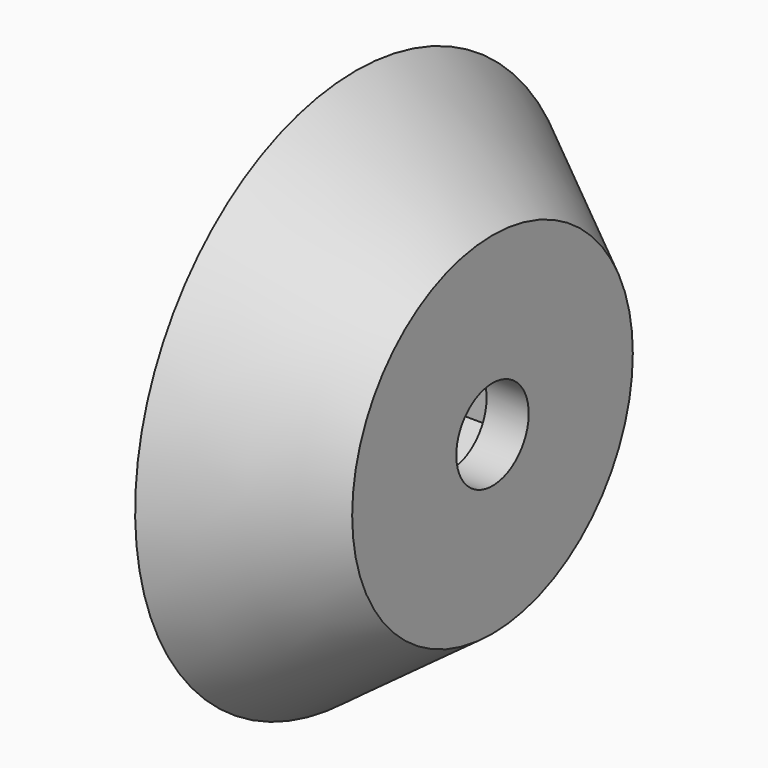
from build123d import *

# Parameters (mm, degrees)
F2_R     = 4.3
F3_DEPTH = 5


with BuildPart() as f1:
    # F0 (on Front) → F1 (revolve)
    with BuildSketch(Plane.XZ):
        Polygon((4, 9.5), (4, 4.3), (13, 4.3), (13, 9.5), (13, 16.664349), (0, 26.19), (0, 25.79), (7.046381, 19.5), (7.046381, 9.5), align=None)
    revolve(axis=Axis((2.175912, 0, 0), (1, 0, 0)))

    # F2 (on face) → F3 (cut)
    with BuildSketch(Plane(origin=(4, 0, 0), x_dir=(0, -1, 0), z_dir=(-1, 0, 0))):
        Polygon((0.039944, 7.984654), (-6.894941, 4.02692), (-6.934886, -3.957734), (-0.039944, -7.984654), (6.894941, -4.02692), (6.934886, 3.957734), align=None)
        Circle(F2_R, mode=Mode.SUBTRACT)
    extrude(amount=-F3_DEPTH, mode=Mode.SUBTRACT)


solid = f1.part
